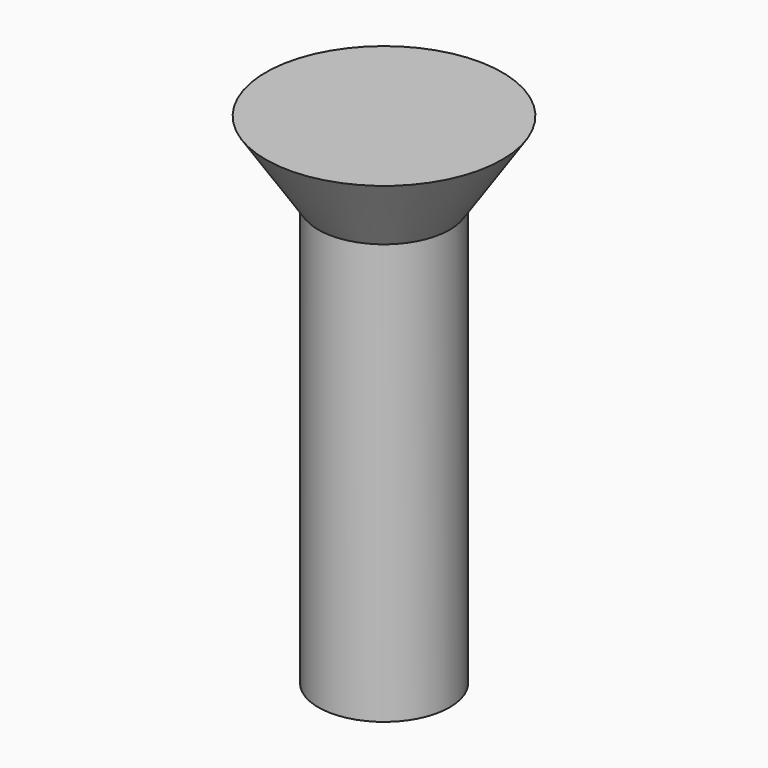
from build123d import *

# Parameters (mm, degrees)
CYLINDER011_R                   = 2.5
CYLINDER011_DEPTH               = 16
FUSION001018017_PLACEMENT_ANGLE = 180
CLONE013_PLACEMENT_ANGLE        = 180


with BuildPart() as cone003:
    # Cone003 → Cone003 (revolve)
    with BuildSketch(Plane(origin=(0, 0, -3), x_dir=(1, 0, 0), z_dir=(0, -1, 0))):
        Polygon((0, 0), (4.5, 0), (2.5, 3), (0, 3), align=None)
    revolve(axis=Axis((0, 0, -3), (0, 0, 1)))


with BuildPart() as obj1:
    # Cylinder011 → Cylinder011 (new body)
    with BuildSketch(Plane.XY):
        Circle(CYLINDER011_R)
    extrude(amount=CYLINDER011_DEPTH)

    # Fusion001018017: union Cone003
    add(cone003.part)


with BuildPart() as obj1_1:
    # Fusion001018017 placement: moved
    add(obj1.part.moved(Location((45, 15, 21))).rotate(Axis((45, 15, 21), (0, 1, 0)), FUSION001018017_PLACEMENT_ANGLE))


with BuildPart() as obj1_2:
    # Clone013 placement: moved
    add(obj1_1.part.moved(Location((90, 30, 0))).rotate(Axis((90, 30, 0), (0, 0, 1)), CLONE013_PLACEMENT_ANGLE))


solid = obj1_2.part
